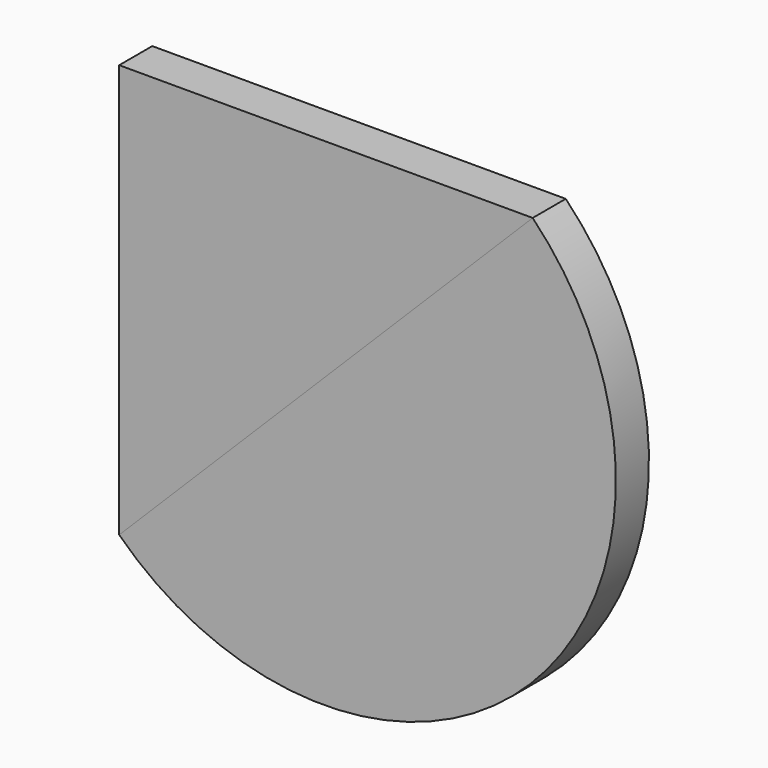
from build123d import *

# Parameters (mm, degrees)
F1_DEPTH = 25.4
F2_DEPTH = 25.4


with BuildPart() as f1:
    # F0 (on Front) → F1 (new body)
    with BuildSketch(Plane.XZ):
        Polygon((127, 127), (-127, 127), (-127, -127), align=None)
    extrude(amount=F1_DEPTH)


with BuildPart() as f2:
    # F0 (on Front) → F2 (new body)
    with BuildSketch(Plane.XZ):
        with BuildLine():
            ThreePointArc((-127, -127), (125.507922, -125.507922), (127, 127))
            Line((127, 127), (-127, -127))
        make_face()
    extrude(amount=F2_DEPTH)


solid = Compound([f1.part, f2.part])
